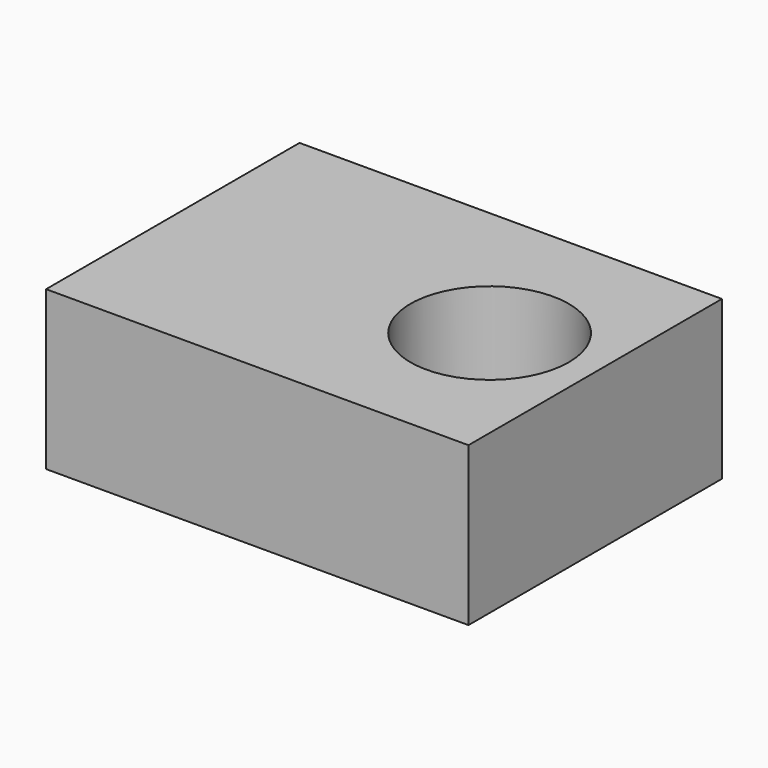
from build123d import *

# Parameters (mm, degrees)
F0_W           = 50.8
F0_H           = 38.1
F0_R           = 9.525
F1_DEPTH       = 19.05
F3_D           = 2.7051
F3_DEPTH       = 15.08125
F3_CSINK_D     = 7.7978
F3_CSINK_ANGLE = 82
F3_TIP         = 0.8126940303


with BuildPart() as f1:
    # F0 (on Top) → F1 (new body)
    with BuildSketch(Plane.XY):
        with Locations((25.4, 19.05)):
            Rectangle(F0_W, F0_H)
        with Locations((38.1, 19.05)):
            Circle(F0_R, mode=Mode.SUBTRACT)
    extrude(amount=F1_DEPTH)

    # F3
    with Locations(Plane(origin=(0, 38.1, 0), x_dir=(-1, 0, 0), z_dir=(0, 1, 0))):
        with Locations((-12.7, 6.35)):
            CounterSinkHole(F3_D / 2, F3_CSINK_D / 2, depth=F3_DEPTH, counter_sink_angle=F3_CSINK_ANGLE)
            with Locations((0, 0, -(F3_DEPTH + F3_TIP / 2))):  # 118° drill point
                Cone(0, F3_D / 2, F3_TIP, mode=Mode.SUBTRACT)


solid = f1.part
